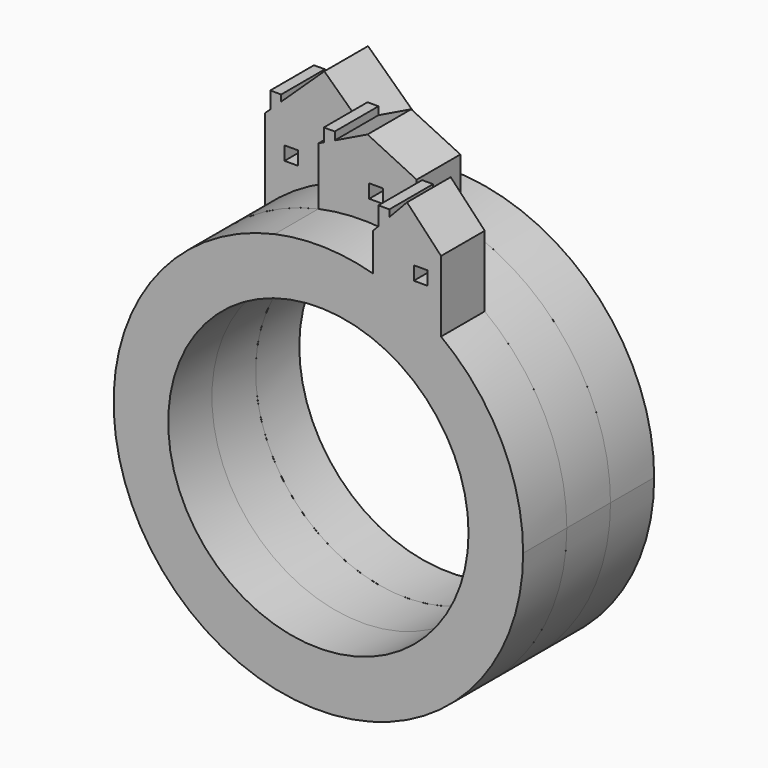
from build123d import *

# Parameters (mm, degrees)
F0_W     = 0.635
F0_H     = 0.635
F1_DEPTH = 2.54
F2_R     = 6.985
F2_W     = 0.635
F2_H     = 0.635
F3_DEPTH = 2.54
F4_W     = 0.635
F4_H     = 0.635
F4_R     = 6.985
F5_DEPTH = 2.54


with BuildPart() as f1:
    # F0 (on Front) → F1 (new body)
    with BuildSketch(Plane.XZ):
        Polygon((-6.3013472773, 10.9605143963), (-6.5553472773, 10.7203579556), (-6.3013472773, 10.7203579556), align=None)
        Polygon((-5.7933472773, 10.7203579556), (-1.018419327, 10.7203579556), (-3.7868833021, 13.3379345482), (-5.7933472773, 11.4408272778), align=None)
        with BuildLine():
            Line((-6.5553472773, 10.7203579556), (-6.5553472773, 6.9103579556))
            ThreePointArc((-6.5553472773, 6.9103579556), (-3.9973662574, 8.6456166931), (-1.018419327, 9.4703984644))
            Line((-1.018419327, 9.4703984644), (-1.018419327, 10.7203579556))
            Line((-1.018419327, 10.7203579556), (-5.7933472773, 10.7203579556))
            Line((-5.7933472773, 10.7203579556), (-6.3013472773, 10.7203579556))
            Line((-6.3013472773, 10.7203579556), (-6.5553472773, 10.7203579556))
        make_face()
        with Locations((-5.3196260977, 9.3868579556)):
            Rectangle(F0_W, F0_H, mode=Mode.SUBTRACT)
        with BuildLine():
            Line((-6.5553472773, 6.9103579556), (-1.018419327, 6.9103579556))
            Line((-1.018419327, 6.9103579556), (-1.018419327, 9.4703984644))
            ThreePointArc((-1.018419327, 9.4703984644), (-3.9973662574, 8.6456166931), (-6.5553472773, 6.9103579556))
        make_face()
        with BuildLine():
            Line((-1.018419327, 9.4703984644), (-1.018419327, 6.9103579556))
            Line((-1.018419327, 6.9103579556), (-6.5553472773, 6.9103579556))
            ThreePointArc((-6.5553472773, 6.9103579556), (-3.7607141731, -8.7511515761), (9.525, 0))
            ThreePointArc((9.525, 0), (6.3649501534, 7.0861156175), (-1.018419327, 9.4703984644))
        make_face()
        with BuildLine():
            ThreePointArc((-1.018419327, 6.9103579556), (4.5648968225, 5.2869596177), (6.985, 0))
            ThreePointArc((6.985, 0), (-4.5648968225, -5.2869596177), (-1.018419327, 6.9103579556))
        make_face(mode=Mode.SUBTRACT)
        Polygon((-6.3013472773, 11.7363579556), (-6.3013472773, 10.9605143963), (-5.7933472773, 11.4408272778), (-5.7933472773, 11.7363579556), align=None)
        Polygon((-6.3013472773, 10.9605143963), (-6.3013472773, 10.7203579556), (-5.7933472773, 10.7203579556), (-5.7933472773, 11.4408272778), align=None)
        Polygon((-5.7933472773, 10.7203579556), (-1.018419327, 10.7203579556), (-3.7868833021, 13.3379345482), (-5.7933472773, 11.4408272778), align=None)
    extrude(amount=F1_DEPTH)


with BuildPart() as f3:
    # F2 (on face) → F3 (new body)
    with BuildSketch(Plane.XZ.offset(2.54)):
        with BuildLine():
            ThreePointArc((-2.032, 9.3057294717), (-4.4575872947, 8.4175733148), (-6.5553472773, 6.9103579556))
            ThreePointArc((-6.5553472773, 6.9103579556), (-3.7607141731, -8.7511515761), (9.525, 0))
            ThreePointArc((9.525, 0), (7.5802086053, 5.7676739246), (2.54, 9.1800885072))
            Line((2.54, 9.1800885072), (2.54, 7.1643579556))
            Line((2.54, 7.1643579556), (-2.032, 7.1643579556))
            Line((-2.032, 7.1643579556), (-2.032, 9.3057294717))
        make_face()
        Circle(F2_R, mode=Mode.SUBTRACT)
        with BuildLine():
            ThreePointArc((-1.018419327, 9.4703984644), (-1.5274303542, 9.4017328995), (-2.032, 9.3057294717))
            Line((-2.032, 9.3057294717), (-2.032, 7.1643579556))
            Line((-2.032, 7.1643579556), (2.54, 7.1643579556))
            Line((2.54, 7.1643579556), (2.54, 9.1800885072))
            ThreePointArc((2.54, 9.1800885072), (0.7745139792, 9.4934584371), (-1.018419327, 9.4703984644))
        make_face()
        with BuildLine():
            ThreePointArc((-1.018419327, 9.4703984644), (0.7745139792, 9.4934584371), (2.54, 9.1800885072))
            Line((2.54, 9.1800885072), (2.54, 11.9903579556))
            Line((2.54, 11.9903579556), (-2.032, 11.9903579556))
            Line((-2.032, 11.9903579556), (-2.032, 11.6786962501))
            Line((-2.032, 11.6786962501), (-1.018419327, 10.7203579556))
            Line((-1.018419327, 10.7203579556), (-1.018419327, 9.4703984644))
        make_face()
        with Locations((0.6493412938, 10.8072543788)):
            Rectangle(F2_W, F2_H, mode=Mode.SUBTRACT)
        Polygon((-2.032, 11.9903579556), (2.54, 11.9903579556), (0.254, 13.0975182873), (-1.27, 12.3594113995), (-1.27, 12.1140610427), (-1.7765850895, 12.1140610427), align=None)
        with BuildLine():
            Line((-2.032, 11.6786962501), (-2.032, 9.3057294717))
            ThreePointArc((-2.032, 9.3057294717), (-1.5274303542, 9.4017328995), (-1.018419327, 9.4703984644))
            Line((-1.018419327, 9.4703984644), (-1.018419327, 10.7203579556))
            Line((-1.018419327, 10.7203579556), (-2.032, 11.6786962501))
        make_face()
        with BuildLine():
            ThreePointArc((-1.018419327, 9.4703984644), (0.7745139792, 9.4934584371), (2.54, 9.1800885072))
            Line((2.54, 9.1800885072), (2.54, 11.9903579556))
            Line((2.54, 11.9903579556), (-2.032, 11.9903579556))
            Line((-2.032, 11.9903579556), (-2.032, 11.6786962501))
            Line((-2.032, 11.6786962501), (-1.018419327, 10.7203579556))
            Line((-1.018419327, 10.7203579556), (-1.018419327, 9.4703984644))
        make_face()
        with Locations((0.6493412938, 10.8072543788)):
            Rectangle(F2_W, F2_H, mode=Mode.SUBTRACT)
        Polygon((-2.032, 11.9903579556), (2.54, 11.9903579556), (0.254, 13.0975182873), (-1.27, 12.3594113995), (-1.27, 12.1140610427), (-1.7765850895, 12.1140610427), align=None)
        Polygon((-1.778, 12.1140610427), (-1.7765850895, 12.1140610427), (-1.27, 12.3594113995), (-1.27, 12.7247357741), (-1.778, 12.7247357741), align=None)
        Polygon((-1.778, 12.1140610427), (-1.7765850895, 12.1140610427), (-1.27, 12.3594113995), (-1.27, 12.7247357741), (-1.778, 12.7247357741), align=None)
        Polygon((-1.27, 12.3594113995), (-1.7765850895, 12.1140610427), (-1.27, 12.1140610427), align=None)
    extrude(amount=F3_DEPTH)


with BuildPart() as f5:
    # F4 (on face) → F5 (new body)
    with BuildSketch(Plane.XZ.offset(5.08)):
        with BuildLine():
            ThreePointArc((2.54, 9.1800885072), (4.1957617936, 8.5510939634), (5.7064392712, 7.6264130392))
            Line((5.7064392712, 7.6264130392), (5.7064392712, 10.9284130392))
            Line((5.7064392712, 10.9284130392), (2.54, 10.9284130392))
            Line((2.54, 10.9284130392), (2.54, 9.1800885072))
        make_face()
        with Locations((4.7555824557, 9.8191454709)):
            Rectangle(F4_W, F4_H, mode=Mode.SUBTRACT)
        Polygon((2.54, 10.9284130392), (5.7064392712, 10.9284130392), (4.1232196356, 12.6085496974), (3.302, 11.7370589811), (3.302, 11.0386284068), (2.794, 11.0386284068), (2.794, 11.1979616865), align=None)
        with BuildLine():
            ThreePointArc((-2.032, 9.3057294717), (-5.9737268518, -7.4189091179), (9.525, 0))
            ThreePointArc((9.525, 0), (8.5170258617, 4.2644924048), (5.7064392712, 7.6264130392))
            Line((5.7064392712, 7.6264130392), (2.54, 7.6264130392))
            Line((2.54, 7.6264130392), (2.54, 9.1800885072))
            ThreePointArc((2.54, 9.1800885072), (0.2616532304, 9.5214054943), (-2.032, 9.3057294717))
        make_face()
        Circle(F4_R, mode=Mode.SUBTRACT)
        with BuildLine():
            Line((2.54, 7.6264130392), (5.7064392712, 7.6264130392))
            ThreePointArc((5.7064392712, 7.6264130392), (4.1957617936, 8.5510939634), (2.54, 9.1800885072))
            Line((2.54, 9.1800885072), (2.54, 7.6264130392))
        make_face()
        Polygon((3.302, 11.7370589811), (2.794, 11.1979616865), (2.794, 11.0386284068), (3.302, 11.0386284068), align=None)
        Polygon((2.794, 12.0546284068), (2.794, 11.1979616865), (3.302, 11.7370589811), (3.302, 12.0546284068), align=None)
    extrude(amount=F5_DEPTH)


solid = Compound([f1.part, f3.part, f5.part])
